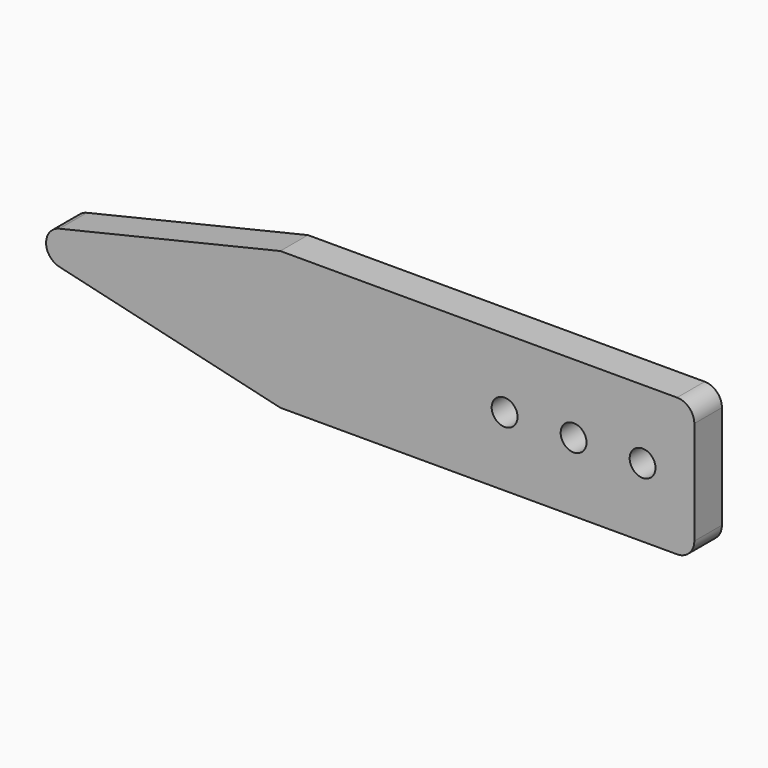
from build123d import *

# Parameters (mm, degrees)
F0_W     = 152.4
F0_H     = 50.8
F0_R     = 4.7625
F1_DEPTH = 6.35
F2_R     = 6.35


with BuildPart() as f1:
    # F0 (on Front) → F1 (new body, symmetric)
    with BuildSketch(Plane.XZ):
        Rectangle(F0_W, F0_H)
        with Locations((6.35, 0)):
            Circle(F0_R, mode=Mode.SUBTRACT)
        with Locations((31.75, 0)):
            Circle(F0_R, mode=Mode.SUBTRACT)
        with Locations((57.15, 0)):
            Circle(F0_R, mode=Mode.SUBTRACT)
        Polygon((-76.2, -25.4), (-76.2, 25.4), (-183.726668, 0), align=None)
    extrude(amount=F1_DEPTH, both=True)

    # F2
    f2_edges = [f1.edges().sort_by_distance(p)[0] for p in [
        (-183.726668, 0, 0),
        (76.2, 0, 25.4),
        (76.2, 0, -25.4),
    ]]
    fillet(f2_edges, radius=F2_R)


solid = f1.part
